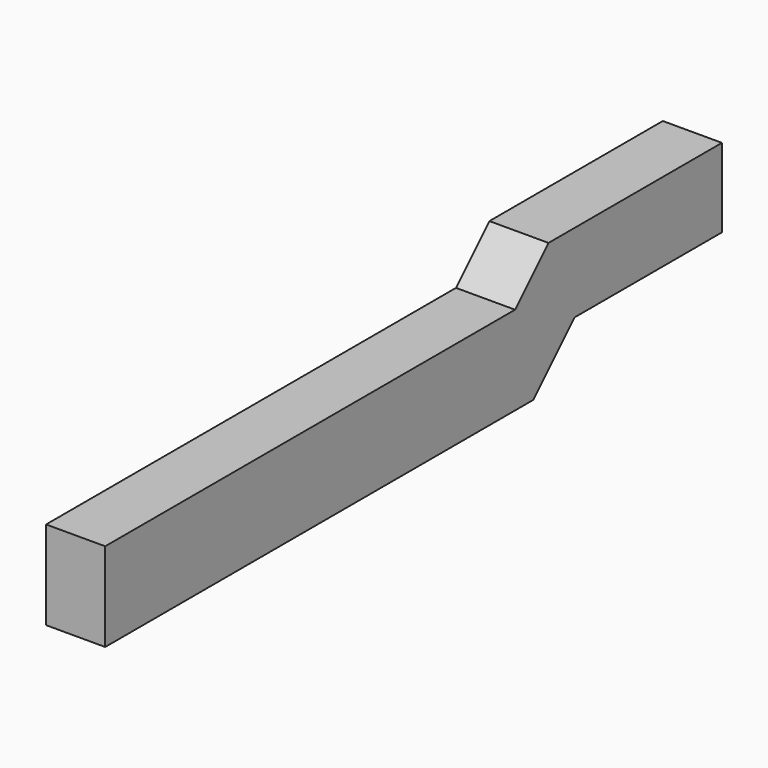
from build123d import *

# Parameters (mm, degrees)
F2_DEPTH = 3


with BuildPart() as f2:
    # F1 (on offset) → F2 (new body)
    with BuildSketch(Plane.YZ.offset(-11.5)):
        Polygon((0, -4), (0, 0), (-11, 0), (-13.12132, -2.12132), (-39.12132, -2.12132), (-39.12132, -6.62132), (-11.964466, -6.62132), (-9.343146, -4), align=None)
    extrude(amount=-F2_DEPTH)


solid = f2.part
